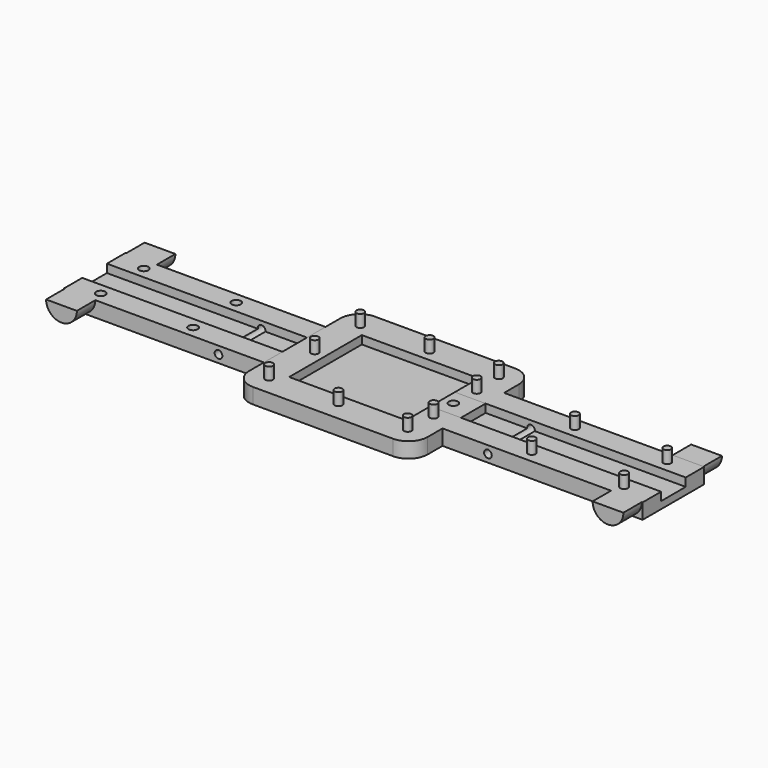
from build123d import *

# Parameters (mm, degrees)
PAD_DEPTH           = 2
POCKET_DEPTH        = 1.075
SKETCH002_R         = 0.6
POCKET001_DEPTH     = 1.8
FILLET_R            = 2.5
PAD005_DEPTH        = 3
PAD006_DEPTH        = 3
SKETCH007_R         = 0.5
POCKET003_DEPTH     = 14.901
PAD001_DEPTH        = 2
POCKET002_DEPTH     = 1.075
MIRROREDSKETCH002_R = 0.5
PAD002_DEPTH        = 1.6
FILLET001_R         = 2.5
PAD003_DEPTH        = 3
PAD004_DEPTH        = 3
SKETCH008_R         = 0.5
POCKET004_DEPTH     = 14.901


with BuildPart() as keybody1:
    # Sketch → Pad (new body)
    with BuildSketch(Plane.XY):
        Polygon((-11.6, -5), (-11.6, -9.9), (11.6, -9.9), (11.6, 9.9), (-11.6, 9.9), (-11.6, 5), (-37.6, 5), (-37.6, -5), align=None)
    extrude(amount=PAD_DEPTH)

    # Sketch001 (on Face10 of Pad) → Pocket (cut)
    with BuildSketch(Plane.XY.offset(2)):
        Polygon((-7.6, 2), (-7.6, 5.9), (7.6, 5.9), (7.6, -5.9), (-7.6, -5.9), (-7.6, -2), (-37.6, -2), (-37.6, 2), align=None)
    extrude(amount=-POCKET_DEPTH, mode=Mode.SUBTRACT)

    # Sketch002 (on Face5 of Pocket) → Pocket001 (cut)
    with BuildSketch(Plane.XY.offset(2)):
        with Locations((-34, 3.5)):
            Circle(SKETCH002_R)
        with Locations((-34, -3.5)):
            Circle(SKETCH002_R)
        with Locations((-22, 3.5)):
            Circle(SKETCH002_R)
        with Locations((-22, -3.5)):
            Circle(SKETCH002_R)
        with Locations((-9.25, -3.5)):
            Circle(SKETCH002_R)
        with Locations((-9.25, 3.5)):
            Circle(SKETCH002_R)
        with Locations((-9, 7.4)):
            Circle(SKETCH002_R)
        with Locations((0, 7.4)):
            Circle(SKETCH002_R)
        with Locations((9, 7.4)):
            Circle(SKETCH002_R)
        with Locations((9, 0)):
            Circle(SKETCH002_R)
        with Locations((9, -7.4)):
            Circle(SKETCH002_R)
        with Locations((0, -7.4)):
            Circle(SKETCH002_R)
        with Locations((-9, -7.4)):
            Circle(SKETCH002_R)
    extrude(amount=-POCKET001_DEPTH, mode=Mode.SUBTRACT)

    # Fillet
    fillet_edges = [keybody1.edges().sort_by_distance(p)[0] for p in [
        (-11.6, -9.9, 1),
        (11.6, -9.9, 1),
        (11.6, 9.9, 1),
        (-11.6, 9.9, 1),
    ]]
    fillet(fillet_edges, radius=FILLET_R)

    # Sketch005 (on Face4 of Fillet) → Pad005 (join)
    with BuildSketch(Plane.XZ.offset(5)):
        with BuildLine():
            ThreePointArc((-37.5, 2), (-35.5, 0), (-33.5, 2))
            Line((-37.5, 2), (-33.5, 2))
        make_face()
    extrude(amount=PAD005_DEPTH)

    # Sketch006 (on Face10 of Pad005) → Pad006 (join)
    with BuildSketch(Plane(origin=(0, 5, 0), x_dir=(-1, 0, 0), z_dir=(0, 1, 0))):
        with BuildLine():
            ThreePointArc((33.5, 2), (35.5, 0), (37.5, 2))
            Line((33.5, 2), (37.5, 2))
        make_face()
    extrude(amount=PAD006_DEPTH)

    # Sketch007 (on Face10 of Pad006) → Pocket003 (cut, through all)
    with BuildSketch(Plane(origin=(0, 5, 0), x_dir=(-1, 0, 0), z_dir=(0, 1, 0))):
        with Locations((17.5, 1)):
            Circle(SKETCH007_R)
    extrude(amount=-POCKET003_DEPTH, mode=Mode.SUBTRACT)


with BuildPart() as keybody2:
    # MirroredSketch → Pad001 (new body)
    with BuildSketch(Plane.XY):
        Polygon((11.6, -5), (11.6, -9.9), (-11.6, -9.9), (-11.6, 9.9), (11.6, 9.9), (11.6, 5), (37.6, 5), (37.6, -5), align=None)
    extrude(amount=PAD001_DEPTH)

    # MirroredSketch001 (on Face10 of Pad001) → Pocket002 (cut)
    with BuildSketch(Plane.XY.offset(2)):
        Polygon((7.6, 2), (7.6, 5.9), (-7.6, 5.9), (-7.6, -5.9), (7.6, -5.9), (7.6, -2), (37.6, -2), (37.6, 2), align=None)
    extrude(amount=-POCKET002_DEPTH, mode=Mode.SUBTRACT)

    # MirroredSketch002 (on Face5 of Pocket002) → Pad002 (join)
    with BuildSketch(Plane.XY.offset(2)):
        with Locations((34, 3.5)):
            Circle(MIRROREDSKETCH002_R)
        with Locations((34, -3.5)):
            Circle(MIRROREDSKETCH002_R)
        with Locations((22, 3.5)):
            Circle(MIRROREDSKETCH002_R)
        with Locations((22, -3.5)):
            Circle(MIRROREDSKETCH002_R)
        with Locations((9.25, -3.5)):
            Circle(MIRROREDSKETCH002_R)
        with Locations((9.25, 3.5)):
            Circle(MIRROREDSKETCH002_R)
        with Locations((9, 7.4)):
            Circle(MIRROREDSKETCH002_R)
        with Locations((0, 7.4)):
            Circle(MIRROREDSKETCH002_R)
        with Locations((-9, 7.4)):
            Circle(MIRROREDSKETCH002_R)
        with Locations((-9, 0)):
            Circle(MIRROREDSKETCH002_R)
        with Locations((-9, -7.4)):
            Circle(MIRROREDSKETCH002_R)
        with Locations((0, -7.4)):
            Circle(MIRROREDSKETCH002_R)
        with Locations((9, -7.4)):
            Circle(MIRROREDSKETCH002_R)
    extrude(amount=PAD002_DEPTH)

    # Fillet001
    fillet001_edges = [keybody2.edges().sort_by_distance(p)[0] for p in [
        (11.6, 9.9, 1),
        (-11.6, 9.9, 1),
        (11.6, -9.9, 1),
        (-11.6, -9.9, 1),
    ]]
    fillet(fillet001_edges, radius=FILLET001_R)

    # Sketch003 (on Face9 of Fillet001) → Pad003 (join)
    with BuildSketch(Plane(origin=(0, 5, 0), x_dir=(-1, 0, 0), z_dir=(0, 1, 0))):
        with BuildLine():
            ThreePointArc((-37.5, 1.999994), (-35.499997, 0), (-33.5, 2))
            Line((-37.5, 1.999994), (-33.5, 2))
        make_face()
    extrude(amount=PAD003_DEPTH)

    # Sketch004 (on Face4 of Pad003) → Pad004 (join)
    with BuildSketch(Plane.XZ.offset(5)):
        with BuildLine():
            ThreePointArc((33.5, 2), (35.5, 0), (37.5, 2))
            Line((33.5, 2), (37.5, 2))
        make_face()
    extrude(amount=PAD004_DEPTH)

    # Sketch008 (on Face10 of Pad004) → Pocket004 (cut, through all)
    with BuildSketch(Plane(origin=(0, 5, 0), x_dir=(-1, 0, 0), z_dir=(0, 1, 0))):
        with Locations((-17.5, 1)):
            Circle(SKETCH008_R)
    extrude(amount=-POCKET004_DEPTH, mode=Mode.SUBTRACT)


solid = Compound([keybody1.part, keybody2.part])
